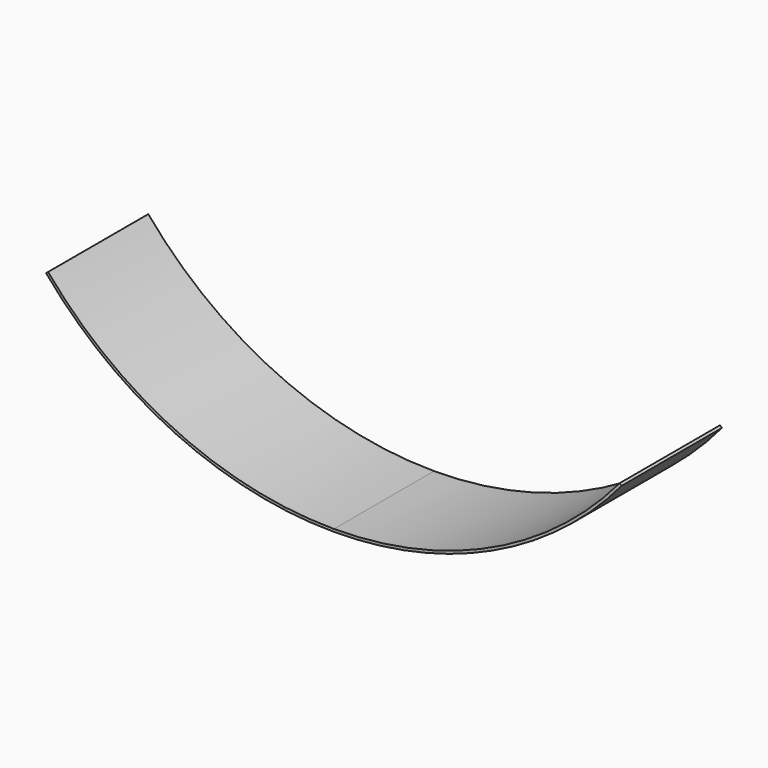
from build123d import *

# Parameters (mm, degrees)
F1_DEPTH = 609.6


with BuildPart() as f1:
    # F0 (on Front) → F1 (new body)
    with BuildSketch(Plane.XZ):
        with BuildLine():
            Line((-1391.213313, -1167.366578), (-1400.942078, -1175.529981))
            ThreePointArc((-1400.942078, -1175.529981), (-772.884277, -1657.455681), (0, -1828.8))
            Line((0, -1828.8), (0, -1816.1))
            ThreePointArc((0, -1816.1), (-767.517025, -1645.945572), (-1391.213313, -1167.366578))
        make_face()
        with BuildLine():
            Line((0, -1816.1), (0, -1828.8))
            ThreePointArc((0, -1828.8), (772.884277, -1657.455681), (1400.942078, -1175.529981))
            Line((1400.942078, -1175.529981), (1391.213313, -1167.366578))
            ThreePointArc((1391.213313, -1167.366578), (767.517025, -1645.945572), (0, -1816.1))
        make_face()
    extrude(amount=-F1_DEPTH)


solid = f1.part
